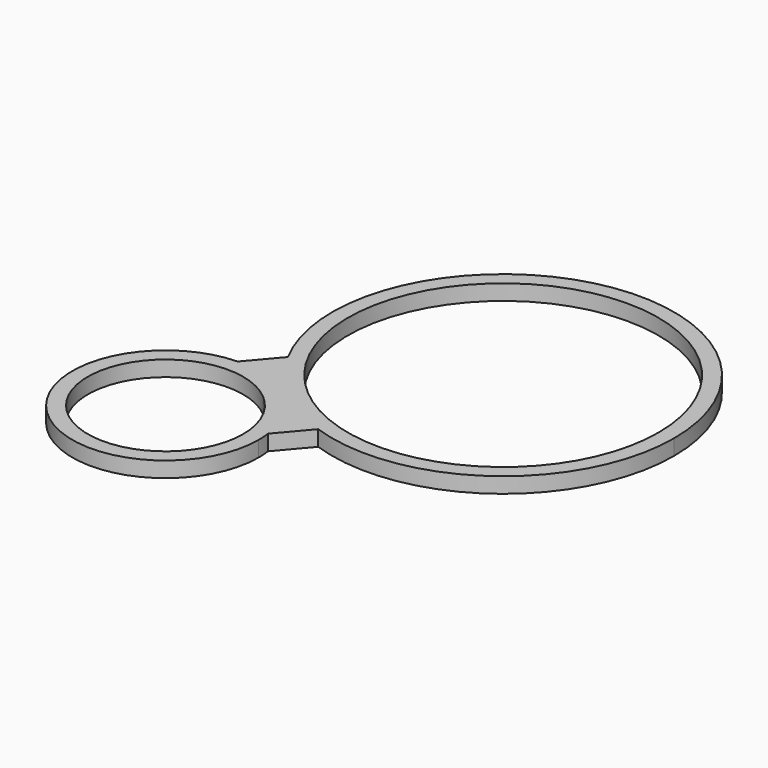
from build123d import *

# Parameters (mm, degrees)
F1_DEPTH = 3


with BuildPart() as f1:
    # F0 (on Top) → F1 (new body)
    with BuildSketch(Plane.XY):
        with BuildLine():
            ThreePointArc((-15.755804, -37.070002), (-17.804677, -30.868516), (-21.931504, -25.806342))
            ThreePointArc((-21.931504, -25.806342), (-27.592968, -22.549942), (-34.043707, -21.528038))
            ThreePointArc((-34.043707, -21.528038), (-46.153741, -52.410308), (-15.587977, -39.522268))
            ThreePointArc((-15.587977, -39.522268), (-15.629983, -38.293267), (-15.755804, -37.070002))
        make_face()
        with BuildLine():
            ThreePointArc((-18.587977, -39.522268), (-47.202416, -45.818858), (-23.87425, -28.092329))
            ThreePointArc((-23.87425, -28.092329), (-19.973538, -33.225678), (-18.587977, -39.522268))
        make_face(mode=Mode.SUBTRACT)
        with BuildLine():
            ThreePointArc((-29.051168, -15.653423), (-25.653561, -20.758006), (-21.3702, -25.145866))
            ThreePointArc((-21.3702, -25.145866), (-16.348978, -28.665501), (-10.763265, -31.195386))
            ThreePointArc((-10.763265, -31.195386), (19.154794, -26.871805), (33, 0))
            ThreePointArc((33, 0), (-8.07191, 31.997567), (-29.051168, -15.653423))
        make_face()
        with BuildLine():
            ThreePointArc((-19.427454, -22.859878), (-12.59318, 27.228878), (30, 0))
            ThreePointArc((30, 0), (12.59318, -27.228878), (-19.427454, -22.859878))
        make_face(mode=Mode.SUBTRACT)
        with BuildLine():
            ThreePointArc((-10.763265, -31.195386), (-16.348978, -28.665501), (-21.3702, -25.145866))
            Line((-21.3702, -25.145866), (-21.931504, -25.806342))
            ThreePointArc((-21.931504, -25.806342), (-17.804677, -30.868516), (-15.755804, -37.070002))
            Line((-15.755804, -37.070002), (-10.763265, -31.195386))
        make_face()
        with BuildLine():
            Line((-21.931504, -25.806342), (-21.3702, -25.145866))
            ThreePointArc((-21.3702, -25.145866), (-25.653561, -20.758006), (-29.051168, -15.653423))
            Line((-29.051168, -15.653423), (-34.043707, -21.528038))
            ThreePointArc((-34.043707, -21.528038), (-27.592968, -22.549942), (-21.931504, -25.806342))
        make_face()
    extrude(amount=F1_DEPTH)


solid = f1.part
